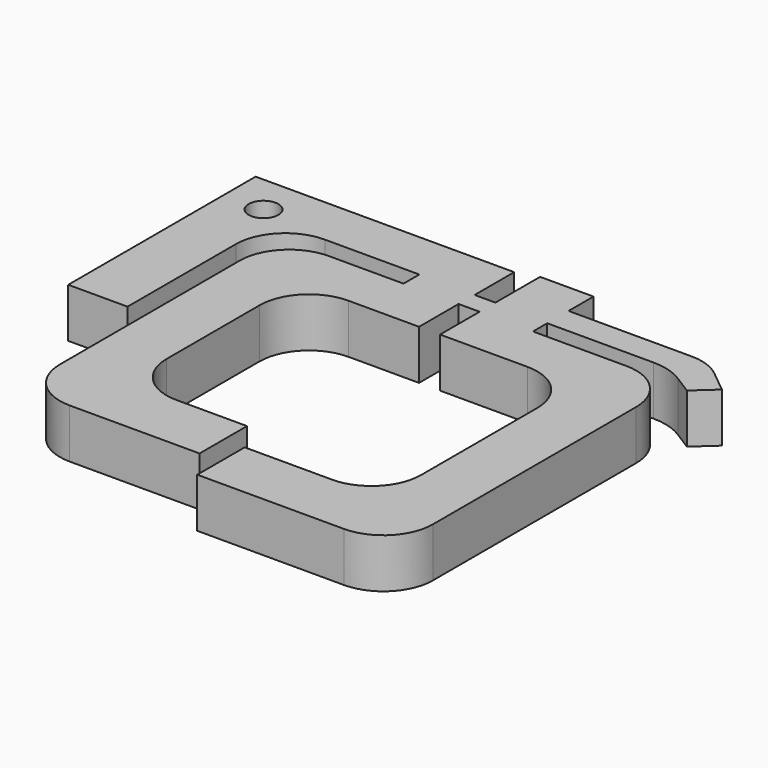
from build123d import *

# Parameters (mm, degrees)
F0_R     = 1.5
F1_DEPTH = 5


with BuildPart() as f1:
    # F0 (on Top) → F1 (new body)
    with BuildSketch(Plane.XY):
        with BuildLine():
            Line((-20.466092, 25.303127), (-10.897727, 25.303127))
            Line((-10.897727, 25.303127), (-10.897727, 23.303127))
            Line((-10.897727, 23.303127), (-18.466092, 23.303127))
            ThreePointArc((-18.466092, 23.303127), (-22.001626, 21.838661), (-23.466092, 18.303127))
            Line((-23.466092, 18.303127), (-23.466092, 15.104749))
            Line((-23.466092, 15.104749), (-23.466092, 9.20962))
            Line((-23.466092, 9.20962), (-23.466092, -4.459552))
            ThreePointArc((-23.466092, -4.459552), (-22.001626, -7.995086), (-18.466092, -9.459552))
            Line((-18.466092, -9.459552), (-5.325101, -9.459552))
            Line((-5.325101, -9.459552), (-5.325101, -3.459552))
            Line((-5.325101, -3.459552), (-12.466092, -3.459552))
            ThreePointArc((-12.466092, -3.459552), (-16.001626, -1.995086), (-17.466092, 1.540448))
            Line((-17.466092, 1.540448), (-17.466092, 13.303127))
            ThreePointArc((-17.466092, 13.303127), (-16.001626, 16.838661), (-12.466092, 18.303127))
            Line((-12.466092, 18.303127), (-5.325101, 18.303127))
            Line((-5.325101, 18.303127), (-5.325101, 23.303127))
            Line((-5.325101, 23.303127), (-3.195953, 23.303127))
            Line((-3.195953, 23.303127), (-3.195953, 18.303127))
            Line((-3.195953, 18.303127), (2.206437, 18.303127))
            Line((2.206437, 18.303127), (5.649895, 18.303127))
            ThreePointArc((5.649895, 18.303127), (9.185429, 16.838661), (10.649895, 13.303127))
            Line((10.649895, 13.303127), (10.649895, -1.416758))
            ThreePointArc((10.649895, -1.416758), (9.185429, -4.952292), (5.649895, -6.416758))
            Line((5.649895, -6.416758), (-3.195953, -6.416758))
            Line((-3.195953, -6.416758), (-3.195953, -12.416758))
            Line((-3.195953, -12.416758), (10.649895, -12.416758))
            Line((10.649895, -12.416758), (11.649895, -12.416758))
            ThreePointArc((11.649895, -12.416758), (15.185429, -10.952292), (16.649895, -7.416758))
            Line((16.649895, -7.416758), (16.649895, 18.303127))
            ThreePointArc((16.649895, 18.303127), (15.185429, 21.838661), (11.649895, 23.303127))
            Line((11.649895, 23.303127), (2.206437, 23.303127))
            Line((2.206437, 23.303127), (2.206437, 25.10515))
            Line((2.206437, 25.10515), (12.961418, 25.10515))
            ThreePointArc((12.961418, 25.10515), (14.626748, 24.869409), (16.161216, 24.180709))
            Line((16.161216, 24.180709), (18.022634, 23.00721))
            Line((18.022634, 23.00721), (20.078026, 24.866851))
            Line((20.078026, 24.866851), (17.85285, 26.679604))
            ThreePointArc((17.85285, 26.679604), (16.370805, 27.51388), (14.694856, 27.803127))
            Line((14.694856, 27.803127), (2.206437, 27.803127))
            Line((2.206437, 27.803127), (2.206437, 30.955919))
            Line((2.206437, 30.955919), (-3.195953, 30.955919))
            Line((-3.195953, 30.955919), (-3.195953, 25.303127))
            Line((-3.195953, 25.303127), (-5.295211, 25.303127))
            Line((-5.295211, 25.303127), (-5.295211, 30.303127))
            Line((-5.295211, 30.303127), (-31.466092, 30.303127))
            Line((-31.466092, 30.303127), (-31.466092, 26.543299))
            Line((-31.466092, 26.543299), (-31.466092, 6.599163))
            Line((-31.466092, 6.599163), (-25.466092, 6.599163))
            Line((-25.466092, 6.599163), (-25.466092, 20.303127))
            ThreePointArc((-25.466092, 20.303127), (-24.001626, 23.838661), (-20.466092, 25.303127))
        make_face()
        with Locations((-27.466092, 26.303127)):
            Circle(F0_R, mode=Mode.SUBTRACT)
        with BuildLine():
            Line((-20.466092, 25.303127), (-10.897727, 25.303127))
            Line((-10.897727, 25.303127), (-10.897727, 23.303127))
            Line((-10.897727, 23.303127), (-18.466092, 23.303127))
            ThreePointArc((-18.466092, 23.303127), (-22.001626, 21.838661), (-23.466092, 18.303127))
            Line((-23.466092, 18.303127), (-23.466092, 15.104749))
            Line((-23.466092, 15.104749), (-23.466092, 9.20962))
            Line((-23.466092, 9.20962), (-23.466092, -4.459552))
            ThreePointArc((-23.466092, -4.459552), (-22.001626, -7.995086), (-18.466092, -9.459552))
            Line((-18.466092, -9.459552), (-5.325101, -9.459552))
            Line((-5.325101, -9.459552), (-5.325101, -3.459552))
            Line((-5.325101, -3.459552), (-12.466092, -3.459552))
            ThreePointArc((-12.466092, -3.459552), (-16.001626, -1.995086), (-17.466092, 1.540448))
            Line((-17.466092, 1.540448), (-17.466092, 13.303127))
            ThreePointArc((-17.466092, 13.303127), (-16.001626, 16.838661), (-12.466092, 18.303127))
            Line((-12.466092, 18.303127), (-5.325101, 18.303127))
            Line((-5.325101, 18.303127), (-5.325101, 23.303127))
            Line((-5.325101, 23.303127), (-3.195953, 23.303127))
            Line((-3.195953, 23.303127), (-3.195953, 18.303127))
            Line((-3.195953, 18.303127), (2.206437, 18.303127))
            Line((2.206437, 18.303127), (5.649895, 18.303127))
            ThreePointArc((5.649895, 18.303127), (9.185429, 16.838661), (10.649895, 13.303127))
            Line((10.649895, 13.303127), (10.649895, -1.416758))
            ThreePointArc((10.649895, -1.416758), (9.185429, -4.952292), (5.649895, -6.416758))
            Line((5.649895, -6.416758), (-3.195953, -6.416758))
            Line((-3.195953, -6.416758), (-3.195953, -12.416758))
            Line((-3.195953, -12.416758), (10.649895, -12.416758))
            Line((10.649895, -12.416758), (11.649895, -12.416758))
            ThreePointArc((11.649895, -12.416758), (15.185429, -10.952292), (16.649895, -7.416758))
            Line((16.649895, -7.416758), (16.649895, 18.303127))
            ThreePointArc((16.649895, 18.303127), (15.185429, 21.838661), (11.649895, 23.303127))
            Line((11.649895, 23.303127), (2.206437, 23.303127))
            Line((2.206437, 23.303127), (2.206437, 25.10515))
            Line((2.206437, 25.10515), (12.961418, 25.10515))
            ThreePointArc((12.961418, 25.10515), (14.626748, 24.869409), (16.161216, 24.180709))
            Line((16.161216, 24.180709), (18.022634, 23.00721))
            Line((18.022634, 23.00721), (20.078026, 24.866851))
            Line((20.078026, 24.866851), (17.85285, 26.679604))
            ThreePointArc((17.85285, 26.679604), (16.370805, 27.51388), (14.694856, 27.803127))
            Line((14.694856, 27.803127), (2.206437, 27.803127))
            Line((2.206437, 27.803127), (2.206437, 30.955919))
            Line((2.206437, 30.955919), (-3.195953, 30.955919))
            Line((-3.195953, 30.955919), (-3.195953, 25.303127))
            Line((-3.195953, 25.303127), (-5.295211, 25.303127))
            Line((-5.295211, 25.303127), (-5.295211, 30.303127))
            Line((-5.295211, 30.303127), (-31.466092, 30.303127))
            Line((-31.466092, 30.303127), (-31.466092, 26.543299))
            Line((-31.466092, 26.543299), (-31.466092, 6.599163))
            Line((-31.466092, 6.599163), (-25.466092, 6.599163))
            Line((-25.466092, 6.599163), (-25.466092, 20.303127))
            ThreePointArc((-25.466092, 20.303127), (-24.001626, 23.838661), (-20.466092, 25.303127))
        make_face()
        with Locations((-27.466092, 26.303127)):
            Circle(F0_R, mode=Mode.SUBTRACT)
    extrude(amount=F1_DEPTH)


solid = f1.part
